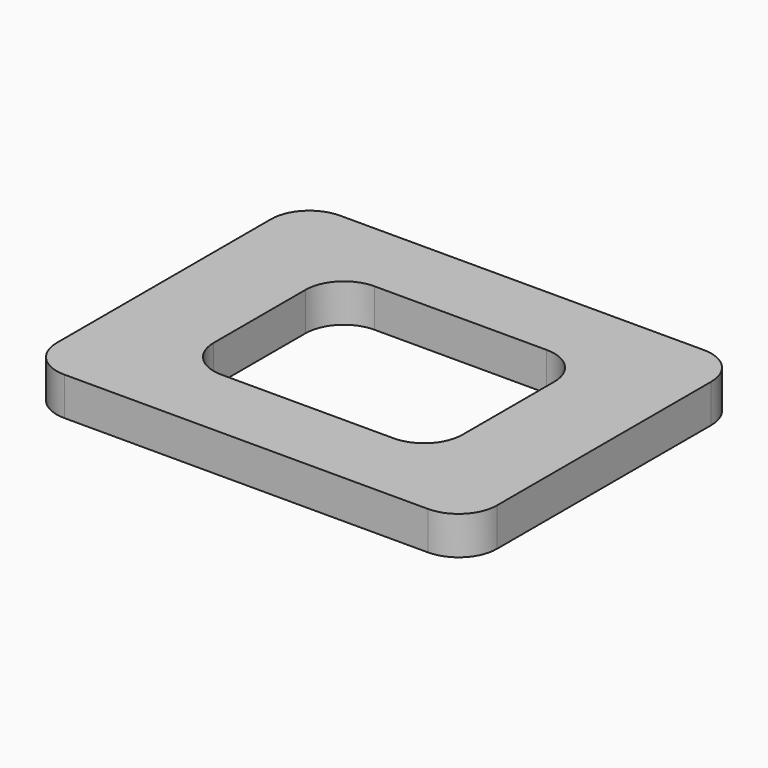
from build123d import *

# Parameters (mm, degrees)
F1_DEPTH = 2


with BuildPart() as f1:
    # F0 (on Top) → F1 (new body)
    with BuildSketch(Plane.XY):
        with BuildLine():
            ThreePointArc((0, 2), (0.585786, 0.585786), (2, 0))
            Line((2, 0), (21, 0))
            ThreePointArc((21, 0), (22.414214, 0.585786), (23, 2))
            Line((23, 2), (23, 16))
            ThreePointArc((23, 16), (22.414214, 17.414214), (21, 18))
            Line((21, 18), (2, 18))
            ThreePointArc((2, 18), (0.585786, 17.414214), (0, 16))
            Line((0, 16), (0, 2))
        make_face()
        with BuildLine():
            Line((5, 6), (5, 9))
            Line((5, 9), (5, 12))
            ThreePointArc((5, 12), (5.585786, 13.414214), (7, 14))
            Line((7, 14), (16, 14))
            ThreePointArc((16, 14), (17.414214, 13.414214), (18, 12))
            Line((18, 12), (18, 9))
            Line((18, 9), (18, 6))
            ThreePointArc((18, 6), (17.414214, 4.585786), (16, 4))
            Line((16, 4), (7, 4))
            ThreePointArc((7, 4), (5.585786, 4.585786), (5, 6))
        make_face(mode=Mode.SUBTRACT)
    extrude(amount=F1_DEPTH)


solid = f1.part
